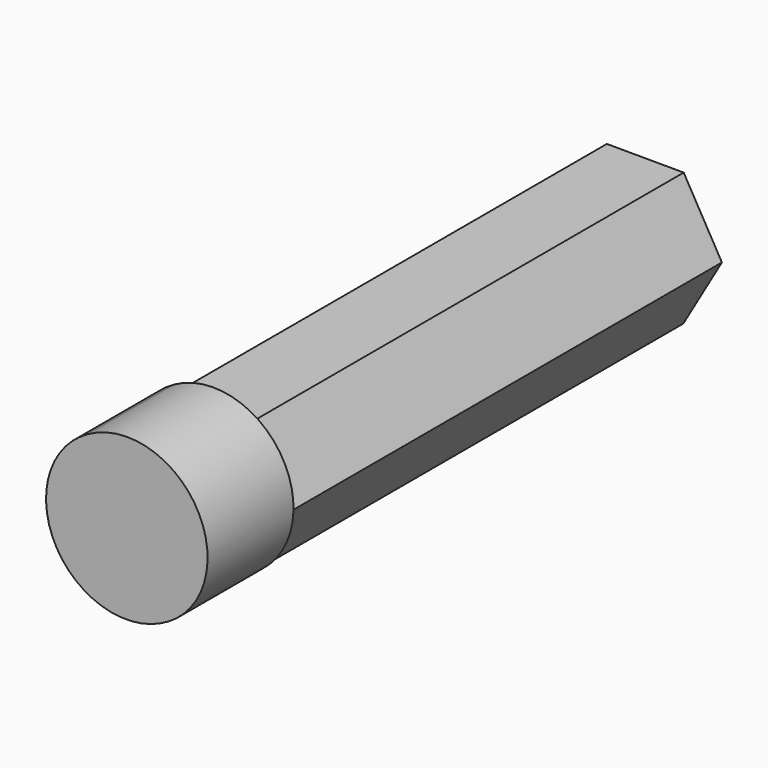
from build123d import *

# Parameters (mm, degrees)
F1_DEPTH = 25.4
F2_DEPTH = 127
F3_R     = 37.94188
F4_DEPTH = 50.8
F5_DEPTH = 127
F6_R     = 37.91738
F7_DEPTH = 50.8


with BuildPart() as f1:
    # F0 (on Front) → F1 (new body)
    with BuildSketch(Plane.XZ):
        Polygon((-24.067785, 0.039836), (-5.804424, 31.460671), (-23.883986, 62.987623), (-60.226907, 63.093739), (-78.490267, 31.672904), (-60.410706, 0.145952), align=None)
    extrude(amount=F1_DEPTH)

    # F1_face (on face) → F2 (join)
    with BuildSketch(Plane(origin=(-42.147346, 0, 31.566788), x_dir=(1, 0, 0), z_dir=(0, 1, 0))):
        Polygon((36.342922, 0.106116), (18.079561, 31.526951), (-18.26336, 31.420835), (-36.342922, -0.106116), (-18.079561, -31.526951), (18.26336, -31.420835), align=None)
        Polygon((18.079561, 31.526951), (36.342922, 0.106116), (18.26336, -31.420835), (-18.079561, -31.526951), (-36.342922, -0.106116), (-18.26336, 31.420835), align=None)
    extrude(amount=F2_DEPTH)

    # F3 (on Front) → F4 (join)
    with BuildSketch(Plane.XZ):
        with Locations((-43.137185, 32.617502)):
            Circle(F3_R)
    extrude(amount=F4_DEPTH)

    # F2_face (on face) → F5 (join)
    with BuildSketch(Plane(origin=(-42.147346, 127, 31.566788), x_dir=(1, 0, 0), z_dir=(0, 1, 0))):
        Polygon((18.26336, -31.420835), (36.342922, 0.106116), (18.079561, 31.526951), (-18.26336, 31.420835), (-36.342922, -0.106116), (-18.079561, -31.526951), align=None)
    extrude(amount=F5_DEPTH)

    # F6 (on Front) → F7 (join)
    with BuildSketch(Plane.XZ):
        with Locations((-43.654717, 32.360213)):
            Circle(F6_R)
    extrude(amount=F7_DEPTH)


solid = f1.part
